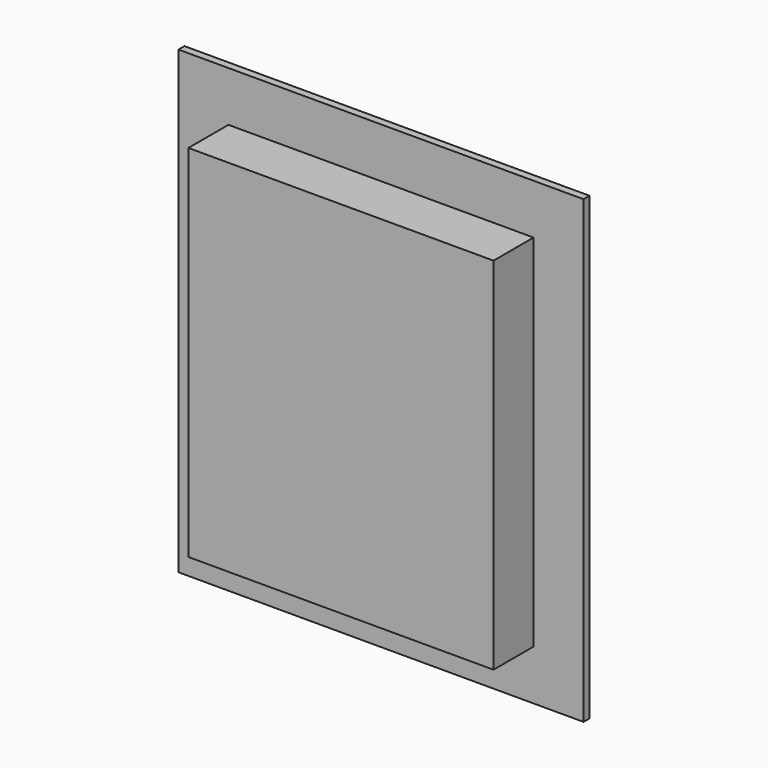
from build123d import *

# Parameters (mm, degrees)
F0_W          = 81
F0_H          = 92
F1_DEPTH      = 1.5
F2_W          = 61
F2_H          = 72
F3_DEPTH      = 10
F3_DEPTH_BACK = 8.5


with BuildPart() as f1:
    # F0 (on Front) → F1 (new body)
    with BuildSketch(Plane.XZ):
        with Locations((0, 10)):
            Rectangle(F0_W, F0_H)
    extrude(amount=F1_DEPTH)

    # F2 (on face) → F3 (join, two sides)
    with BuildSketch(Plane.XZ.offset(1.5)) as f3_sk:
        with Locations((0, 10)):
            Rectangle(F2_W, F2_H)
    extrude(amount=F3_DEPTH)
    extrude(f3_sk.sketch, amount=-F3_DEPTH_BACK)


solid = f1.part
